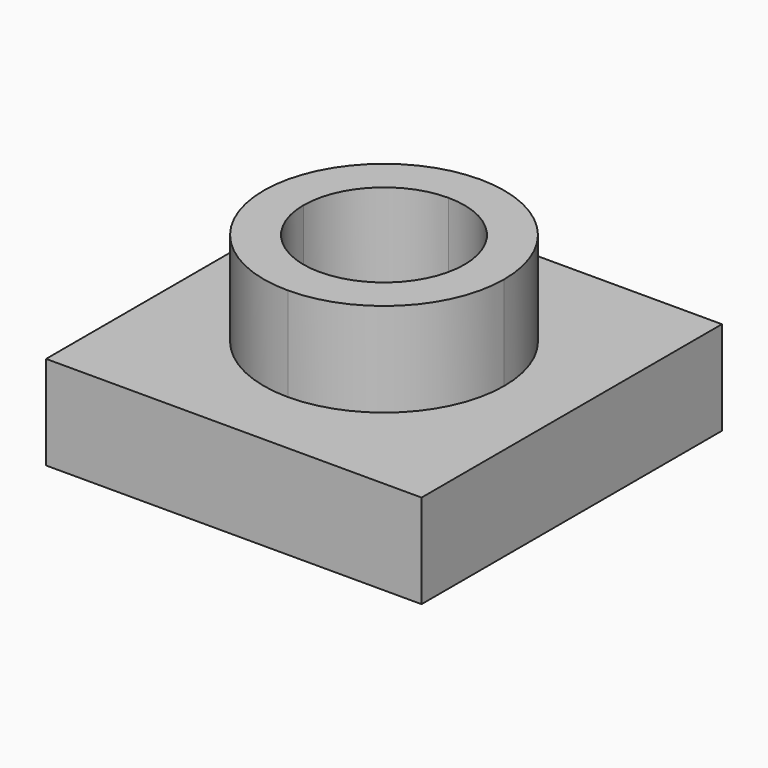
from build123d import *

# Parameters (mm, degrees)
F1_DEPTH = 25.4
F2_DEPTH = 50.8


with BuildPart() as f1:
    # F0 (on Top) → F1 (new body)
    with BuildSketch(Plane.XY):
        with BuildLine():
            Line((5.2561312914, 65.071428316), (-45.5438687086, 65.071428316))
            Line((-45.5438687086, 65.071428316), (-45.5438687086, 14.271428316))
            Line((-45.5438687086, 14.271428316), (-27.2798932146, 14.271428316))
            ThreePointArc((-27.2798932146, 14.271428316), (-17.7503122697, 37.2778718771), (5.2561312914, 46.807452822))
            Line((5.2561312914, 46.807452822), (5.2561312914, 65.071428316))
        make_face()
        with BuildLine():
            Line((-27.2798932146, 14.271428316), (-45.5438687086, 14.271428316))
            Line((-45.5438687086, 14.271428316), (-45.5438687086, -36.528571684))
            Line((-45.5438687086, -36.528571684), (5.2561312914, -36.528571684))
            Line((5.2561312914, -36.528571684), (5.2561312914, -18.26459619))
            ThreePointArc((5.2561312914, -18.26459619), (-17.7503122697, -8.735015245), (-27.2798932146, 14.271428316))
        make_face()
        with BuildLine():
            Line((56.0561312914, -36.528571684), (56.0561312914, 14.271428316))
            Line((56.0561312914, 14.271428316), (37.7921557974, 14.271428316))
            ThreePointArc((37.7921557974, 14.271428316), (28.2625748524, -8.735015245), (5.2561312914, -18.26459619))
            Line((5.2561312914, -18.26459619), (5.2561312914, -36.528571684))
            Line((5.2561312914, -36.528571684), (56.0561312914, -36.528571684))
        make_face()
        with BuildLine():
            Line((56.0561312914, 65.071428316), (5.2561312914, 65.071428316))
            Line((5.2561312914, 65.071428316), (5.2561312914, 46.807452822))
            ThreePointArc((5.2561312914, 46.807452822), (28.2625748524, 37.2778718771), (37.7921557974, 14.271428316))
            Line((37.7921557974, 14.271428316), (56.0561312914, 14.271428316))
            Line((56.0561312914, 14.271428316), (56.0561312914, 65.071428316))
        make_face()
    extrude(amount=F1_DEPTH)


with BuildPart() as f2:
    # F0 (on Top) → F2 (new body)
    with BuildSketch(Plane.XY):
        with BuildLine():
            Line((5.2561312914, 36.0387259762), (5.2561312914, 46.807452822))
            ThreePointArc((5.2561312914, 46.807452822), (-17.7503122697, 37.2778718771), (-27.2798932146, 14.271428316))
            Line((-27.2798932146, 14.271428316), (-16.5111663688, 14.271428316))
            ThreePointArc((-16.5111663688, 14.271428316), (-10.1356724922, 29.6632320996), (5.2561312914, 36.0387259762))
        make_face()
        with BuildLine():
            ThreePointArc((37.7921557974, 14.271428316), (28.2625748524, 37.2778718771), (5.2561312914, 46.807452822))
            Line((5.2561312914, 46.807452822), (5.2561312914, 36.0387259762))
            ThreePointArc((5.2561312914, 36.0387259762), (20.647935075, 29.6632320996), (27.0234289516, 14.271428316))
            Line((27.0234289516, 14.271428316), (37.7921557974, 14.271428316))
        make_face()
        with BuildLine():
            ThreePointArc((5.2561312914, -18.26459619), (28.2625748524, -8.735015245), (37.7921557974, 14.271428316))
            Line((37.7921557974, 14.271428316), (27.0234289516, 14.271428316))
            ThreePointArc((27.0234289516, 14.271428316), (20.647935075, -1.1203754676), (5.2561312914, -7.4958693441))
            Line((5.2561312914, -7.4958693441), (5.2561312914, -18.26459619))
        make_face()
        with BuildLine():
            Line((-16.5111663688, 14.271428316), (-27.2798932146, 14.271428316))
            ThreePointArc((-27.2798932146, 14.271428316), (-17.7503122697, -8.735015245), (5.2561312914, -18.26459619))
            Line((5.2561312914, -18.26459619), (5.2561312914, -7.4958693441))
            ThreePointArc((5.2561312914, -7.4958693441), (-10.1356724922, -1.1203754676), (-16.5111663688, 14.271428316))
        make_face()
    extrude(amount=F2_DEPTH)


solid = Compound([f1.part, f2.part])
